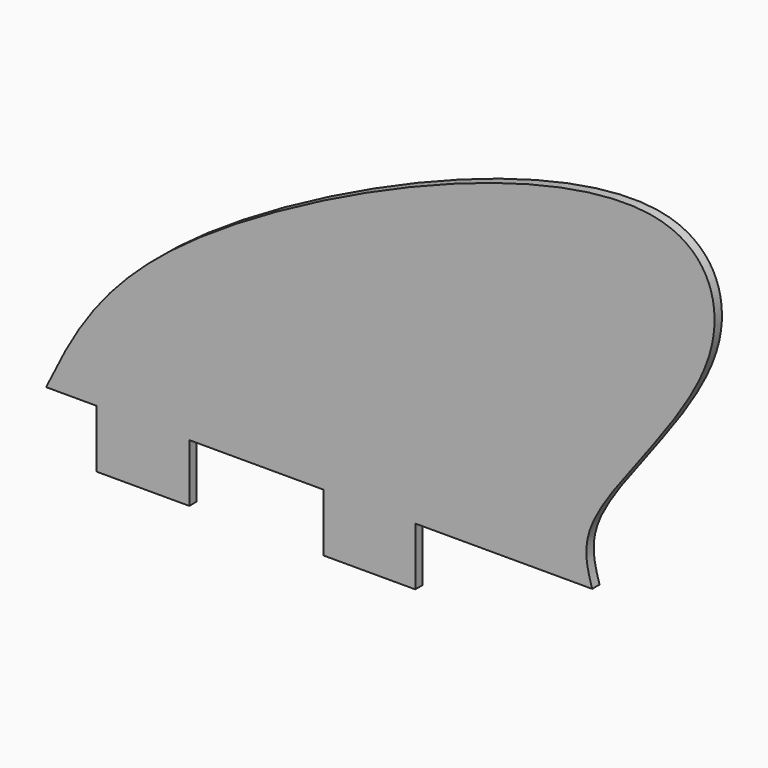
from build123d import *

# Parameters (mm, degrees)
F1_DEPTH = 3.1792204827


with BuildPart() as f1:
    # F0 (on Front) → F1 (new body)
    with BuildSketch(Plane.XZ):
        with BuildLine():
            add(Edge.make_bspline(
                [(-75.2943009138, -56.3686490059), (-66.6324711802, -38.4976097954), (-44.3209020412, 7.5355012309), (141.3795574006, 90.3375353659), (165.0946965175, 23.1374477041), (105.7016720437, -33.5342675022), (110.8075686828, -50.6001397281), (112.5333309174, -56.3686490059)],
                knots=[0, 0, 0, 0, 0.2054162082, 0.5291212594, 0.6812034053, 0.8922433787, 1, 1, 1, 1], degree=3))
            Line((-75.2943009138, -56.3686490059), (-57.9970628023, -56.3686490059))
            Line((-57.9970628023, -56.3686490059), (-57.9970628023, -76.3113349676))
            Line((-57.9970628023, -76.3113349676), (-26.0480493307, -76.3113349676))
            Line((-26.0480493307, -76.3113349676), (-26.0480493307, -56.3686490059))
            Line((-26.0480493307, -56.3686490059), (20.1457440853, -56.3686490059))
            Line((20.1457440853, -56.3686490059), (20.1457440853, -76.3113349676))
            Line((20.1457440853, -76.3113349676), (51.6877770424, -76.3113349676))
            Line((51.6877770424, -76.3113349676), (51.6877770424, -56.3686490059))
            Line((51.6877770424, -56.3686490059), (112.5333309174, -56.3686490059))
        make_face()
    extrude(amount=F1_DEPTH)


solid = f1.part
